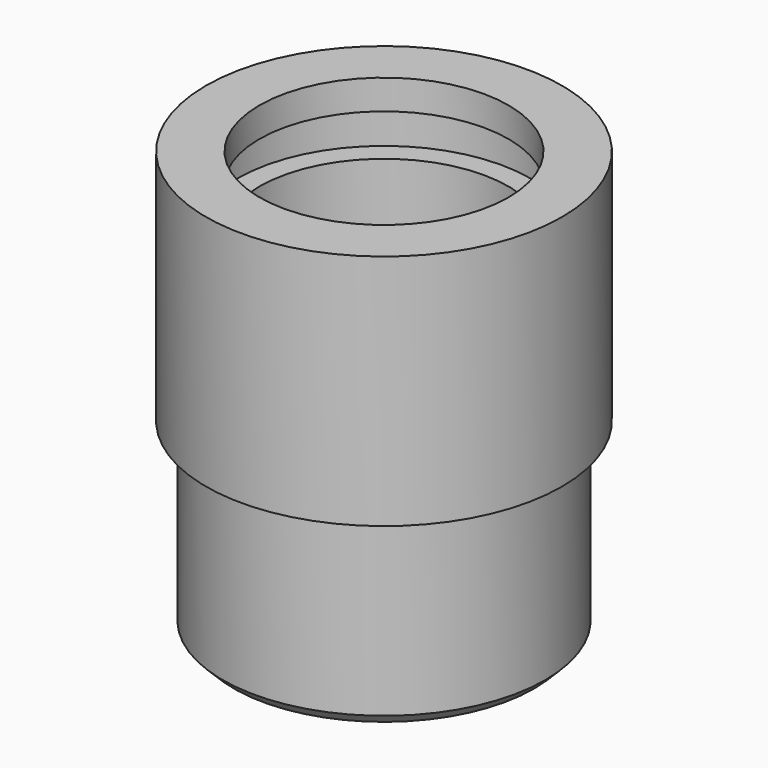
from build123d import *

# Parameters (mm, degrees)
F0_R      = 9.525
F1_DEPTH  = 12.7
F2_R      = 6.6675
F3_DEPTH  = 9.525
F4_W      = 1.1684
F4_H      = 2.2352
F6_R      = 8.636
F7_DEPTH  = 10
F8_R      = 4.9
F9_DEPTH  = 2.5
F10_R     = 2.5
F11_DEPTH = 25.4
F12_R     = 3.5
F13_DEPTH = 2
F14_SIZE  = 0.6


with BuildPart() as f1:
    # F0 (on Top) → F1 (new body)
    with BuildSketch(Plane.XY):
        Circle(F0_R)
    extrude(amount=F1_DEPTH)

    # F2 (on face) → F3 (cut)
    with BuildSketch(Plane.XY.offset(12.7)):
        Circle(F2_R)
    extrude(amount=-F3_DEPTH, mode=Mode.SUBTRACT)

    # F4 (on Front) → F5 (revolve, cut)
    with BuildSketch(Plane.XZ):
        with Locations((7.2517, 9.9949)):
            Rectangle(F4_W, F4_H)
    revolve(axis=Axis((0, 0, 19.022157), (0, 0, 1)), mode=Mode.SUBTRACT)

    # F6 (on face) → F7 (join)
    with BuildSketch(Plane(origin=(0, 0, 0), x_dir=(1, 0, 0), z_dir=(0, 0, -1))):
        Circle(F6_R)
    extrude(amount=F7_DEPTH)

    # F8 (on face) → F9 (cut)
    with BuildSketch(Plane(origin=(0, 0, -10), x_dir=(1, 0, 0), z_dir=(0, 0, -1))):
        Circle(F8_R)
    extrude(amount=-F9_DEPTH, mode=Mode.SUBTRACT)

    # F10 (on face) → F11 (cut)
    with BuildSketch(Plane.XY.offset(3.175)):
        Circle(F10_R)
    extrude(amount=-F11_DEPTH, mode=Mode.SUBTRACT)

    # F12 (on face) → F13 (cut)
    with BuildSketch(Plane(origin=(0, 0, -7.5), x_dir=(1, 0, 0), z_dir=(0, 0, -1))):
        Circle(F12_R)
    extrude(amount=-F13_DEPTH, mode=Mode.SUBTRACT)

    # F14
    f14_edges = [f1.edges().sort_by_distance(p)[0] for p in [
        (-4.9, 0, -10),
        (-8.636, 0, -10),
    ]]
    chamfer(f14_edges, length=F14_SIZE)


solid = f1.part
